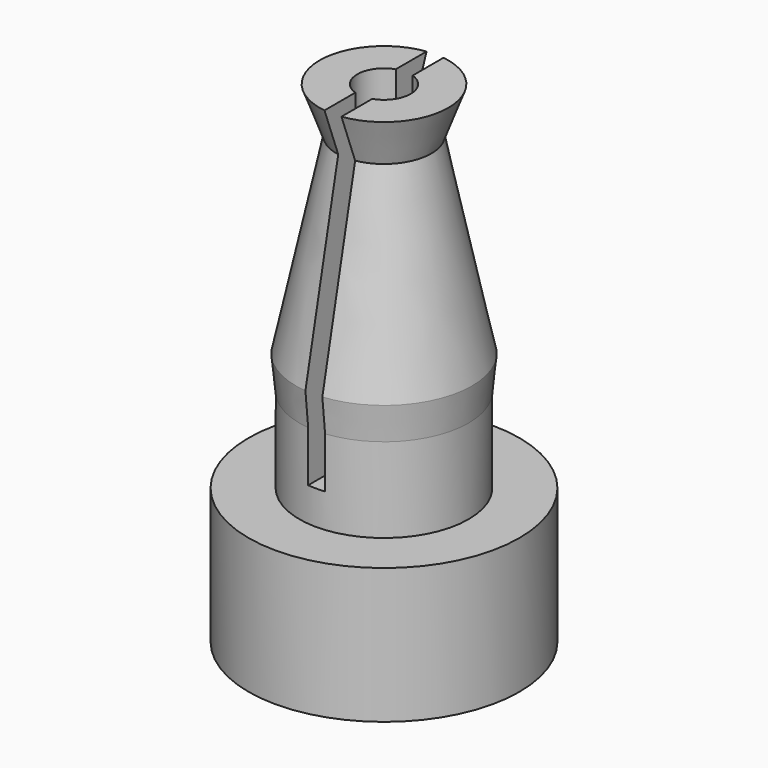
from build123d import *

# Parameters (mm, degrees)
SKETCH001_W          = 4.2
SKETCH001_H          = 5.6
POCKET_DEPTH         = 2.5
SKETCH002_R          = 0.7874
POCKET001_DEPTH      = 14.501
SKETCH004_W          = 0.5
SKETCH004_H          = 11.942059
SKETCH004_H_2        = 6.122161
POCKET003_DEPTH      = 5
POCKET003_DEPTH_BACK = -5


with BuildPart() as part:
    # Sketch → Revolution (revolve)
    with BuildSketch(Plane.XZ):
        Polygon((2.5, 0), (4, 0), (4, -4), (0, -4), (0, 0), (0, 10.5), (1.9, 10.5), (1.4, 9.15), (2.6, 3.5), (2.5, 2.5), align=None)
    revolve(axis=Axis((0, 0, 0), (0, 0, 1)))

    # Sketch001 (on Face5 of Revolution) → Pocket (cut)
    with BuildSketch(Plane(origin=(0, 0, -4), x_dir=(1, 0, 0), z_dir=(0, 0, -1))):
        Rectangle(SKETCH001_W, SKETCH001_H)
    extrude(amount=-POCKET_DEPTH, mode=Mode.SUBTRACT)

    # Sketch002 (on Face6 of Pocket) → Pocket001 (cut, through all)
    with BuildSketch(Plane(origin=(0, 0, 10.5), x_dir=(-1, 0, 0), z_dir=(0, 0, 1))):
        Circle(SKETCH002_R)
    extrude(amount=-POCKET001_DEPTH, mode=Mode.SUBTRACT)

    # Sketch004 → Pocket003 (cut, two sides)
    with BuildSketch(Plane.XZ) as pocket003_sk:
        with Locations((0, 6.971029)):
            Rectangle(SKETCH004_W, SKETCH004_H)
        with Locations((0, -13.475635)):
            Rectangle(SKETCH004_W, SKETCH004_H_2)
    extrude(amount=-POCKET003_DEPTH, mode=Mode.SUBTRACT)
    extrude(pocket003_sk.sketch, amount=-POCKET003_DEPTH_BACK, mode=Mode.SUBTRACT)


solid = part.part
